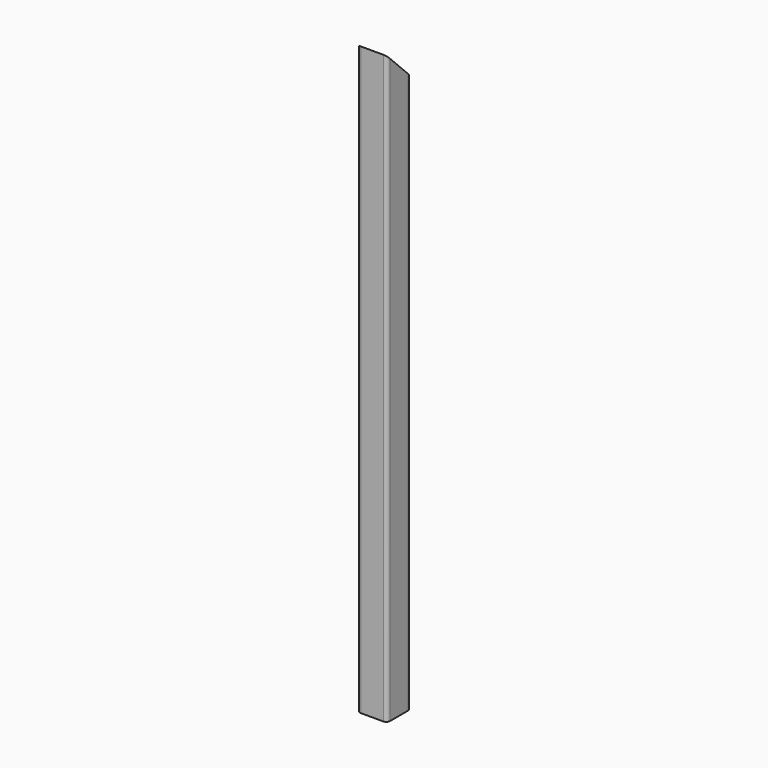
from build123d import *

# Parameters (mm, degrees)
F1_DEPTH      = 2993.23125
F3_DEPTH      = 76.201
F3_DEPTH_BACK = 76.201


with BuildPart() as f1:
    # F0 (on Top) → F1 (new body)
    with BuildSketch(Plane.XY):
        with BuildLine():
            ThreePointArc((-76.2, -57.15), (-70.6203841816, -70.6203841816), (-57.15, -76.2))
            Line((-57.15, -76.2), (57.15, -76.2))
            ThreePointArc((57.15, -76.2), (70.6203841816, -70.6203841816), (76.2, -57.15))
            Line((76.2, -57.15), (76.2, 57.15))
            ThreePointArc((76.2, 57.15), (70.6203841816, 70.6203841816), (57.15, 76.2))
            Line((57.15, 76.2), (-57.15, 76.2))
            ThreePointArc((-57.15, 76.2), (-70.6203841816, 70.6203841816), (-76.2, 57.15))
            Line((-76.2, 57.15), (-76.2, -57.15))
        make_face()
        with BuildLine():
            Line((57.15, -66.675), (-57.15, -66.675))
            ThreePointArc((-57.15, -66.675), (-63.8851920908, -63.8851920908), (-66.675, -57.15))
            Line((-66.675, -57.15), (-66.675, 57.15))
            ThreePointArc((-66.675, 57.15), (-63.8851920908, 63.8851920908), (-57.15, 66.675))
            Line((-57.15, 66.675), (57.15, 66.675))
            ThreePointArc((57.15, 66.675), (63.8851920908, 63.8851920908), (66.675, 57.15))
            Line((66.675, 57.15), (66.675, -57.15))
            ThreePointArc((66.675, -57.15), (63.8851920908, -63.8851920908), (57.15, -66.675))
        make_face(mode=Mode.SUBTRACT)
    extrude(amount=F1_DEPTH)

    # F2 (on Right) → F3 (cut, two sides)
    with BuildSketch(Plane.YZ) as f3_sk:
        Polygon((76.2, 2993.23125), (-76.2, 2993.23125), (76.2, 2840.83125), align=None)
    extrude(amount=-F3_DEPTH, mode=Mode.SUBTRACT)
    extrude(f3_sk.sketch, amount=F3_DEPTH_BACK, mode=Mode.SUBTRACT)


solid = f1.part
